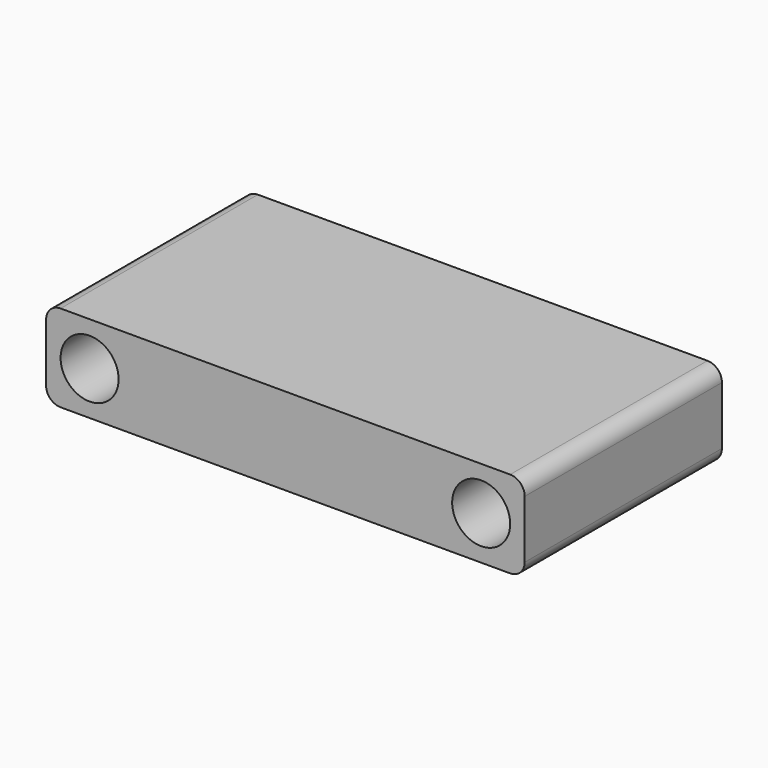
from build123d import *

# Parameters (mm, degrees)
BOX001_W               = 50
BOX001_H               = 4
BOX001_DEPTH           = 10
CYLINDER002_R          = 2
CYLINDER002_DEPTH      = 30
CYLINDER002_ROLL_ANGLE = 90
CYLINDER001_R          = 2
CYLINDER001_DEPTH      = 30
CYLINDER001_ROLL_ANGLE = 90
CYLINDER_R             = 2
CYLINDER_DEPTH         = 30
CYLINDER_ROLL_ANGLE    = 90
BOX_W                  = 33
BOX_H                  = 21
BOX_DEPTH              = 6
FILLET_R               = 1


with BuildPart() as cube001:
    # Box001 → Box001 (new body)
    with BuildSketch(Plane.XY):
        with Locations((25, 2)):
            Rectangle(BOX001_W, BOX001_H)
    extrude(amount=BOX001_DEPTH)


with BuildPart() as cylinder002:
    # Cylinder002 → Cylinder002 (new body)
    with BuildSketch(Plane.XY):
        Circle(CYLINDER002_R)
    extrude(amount=CYLINDER002_DEPTH)


with BuildPart() as cylinder002_1:
    # Cylinder002 roll: moved
    add(cylinder002.part.rotate(Axis((0, 0, 0), (1, 0, 0)), CYLINDER002_ROLL_ANGLE))


with BuildPart() as cylinder002_2:
    # Cylinder002 placement: moved
    add(cylinder002_1.part.moved(Location((30, 27, 3))))


with BuildPart() as cylinder001:
    # Cylinder001 → Cylinder001 (new body)
    with BuildSketch(Plane.XY):
        Circle(CYLINDER001_R)
    extrude(amount=CYLINDER001_DEPTH)


with BuildPart() as cylinder001_1:
    # Cylinder001 roll: moved
    add(cylinder001.part.rotate(Axis((0, 0, 0), (1, 0, 0)), CYLINDER001_ROLL_ANGLE))


with BuildPart() as cylinder001_2:
    # Cylinder001 placement: moved
    add(cylinder001_1.part.moved(Location((3, 27, 3))))


with BuildPart() as cylinder:
    # Cylinder → Cylinder (new body)
    with BuildSketch(Plane.XY):
        Circle(CYLINDER_R)
    extrude(amount=CYLINDER_DEPTH)


with BuildPart() as cylinder_1:
    # Cylinder roll: moved
    add(cylinder.part.rotate(Axis((0, 0, 0), (1, 0, 0)), CYLINDER_ROLL_ANGLE))


with BuildPart() as cylinder_2:
    # Cylinder placement: moved
    add(cylinder_1.part.moved(Location((3, 27, 3))))


with BuildPart() as cut003:
    # Box → Box (new body)
    with BuildSketch(Plane.XY):
        with Locations((16.5, 10.5)):
            Rectangle(BOX_W, BOX_H)
    extrude(amount=BOX_DEPTH)

    # Cut: cut Cylinder
    add(cylinder_2.part, mode=Mode.SUBTRACT)

    # Cut001: cut Cylinder001
    add(cylinder001_2.part, mode=Mode.SUBTRACT)

    # Cut002: cut Cylinder002
    add(cylinder002_2.part, mode=Mode.SUBTRACT)

    # Fillet
    fillet_edges = [cut003.edges().sort_by_distance(p)[0] for p in [
        (0, 10.5, 6),
        (0, 10.5, 0),
        (33, 10.5, 6),
        (33, 10.5, 0),
    ]]
    fillet(fillet_edges, radius=FILLET_R)

    # Cut003: cut Cube001
    add(cube001.part, mode=Mode.SUBTRACT)


solid = cut003.part
